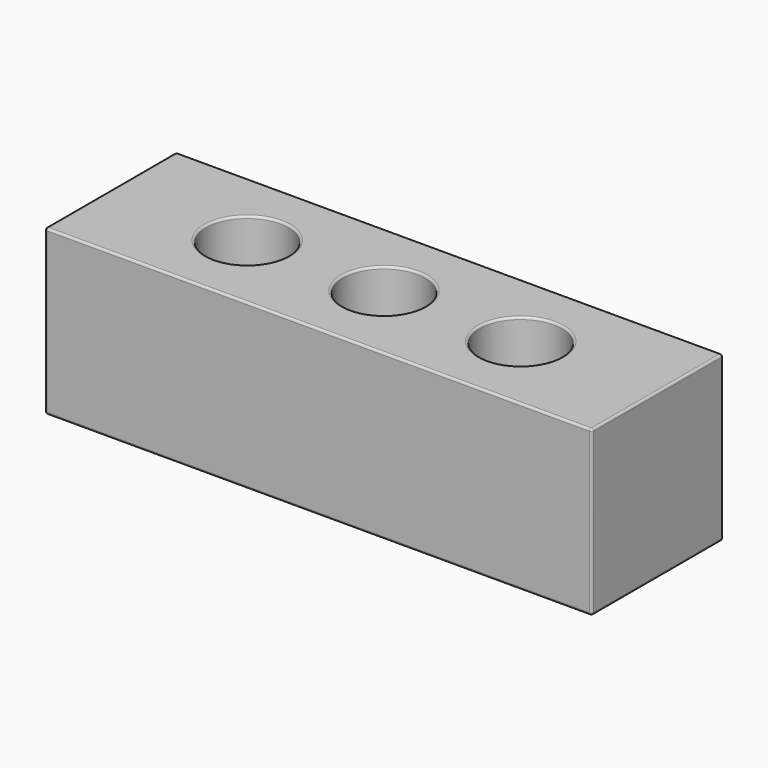
from build123d import *

# Parameters (mm, degrees)
F0_W     = 63.5
F0_H     = 19.05
F0_R     = 4.7625
F1_DEPTH = 19.05
F3_R     = 0.254
F4_ANGLE = 90


with BuildPart() as f1:
    # F0 (on Front) → F1 (new body)
    with BuildSketch(Plane.XZ):
        Rectangle(F0_W, F0_H)
        with Locations((-15.875, 0)):
            Circle(F0_R, mode=Mode.SUBTRACT)
        Circle(F0_R, mode=Mode.SUBTRACT)
        with Locations((15.875, 0)):
            Circle(F0_R, mode=Mode.SUBTRACT)
    extrude(amount=-F1_DEPTH)

    # F3
    f3_edges = [f1.edges().sort_by_distance(p)[0] for p in [
        (31.75, 19.05, 0),
        (0, 19.05, 9.525),
        (-31.75, 19.05, 0),
        (0, 19.05, -9.525),
        (-20.6375, 19.05, 0),
        (-4.7625, 19.05, 0),
        (11.1125, 19.05, 0),
        (31.75, 0, 0),
        (0, 0, 9.525),
        (-31.75, 0, 0),
        (0, 0, -9.525),
        (-20.6375, 0, 0),
        (-4.7625, 0, 0),
        (11.1125, 0, 0),
        (31.75, 9.525, -9.525),
        (31.75, 9.525, 9.525),
        (-31.75, 9.525, 9.525),
        (-31.75, 9.525, -9.525),
    ]]
    fillet(f3_edges, radius=F3_R)


with BuildPart() as f1_1:
    # F4: moved
    add(f1.part.rotate(Axis((7.9375, 0, 0), (1, 0, 0)), F4_ANGLE))


solid = f1_1.part
